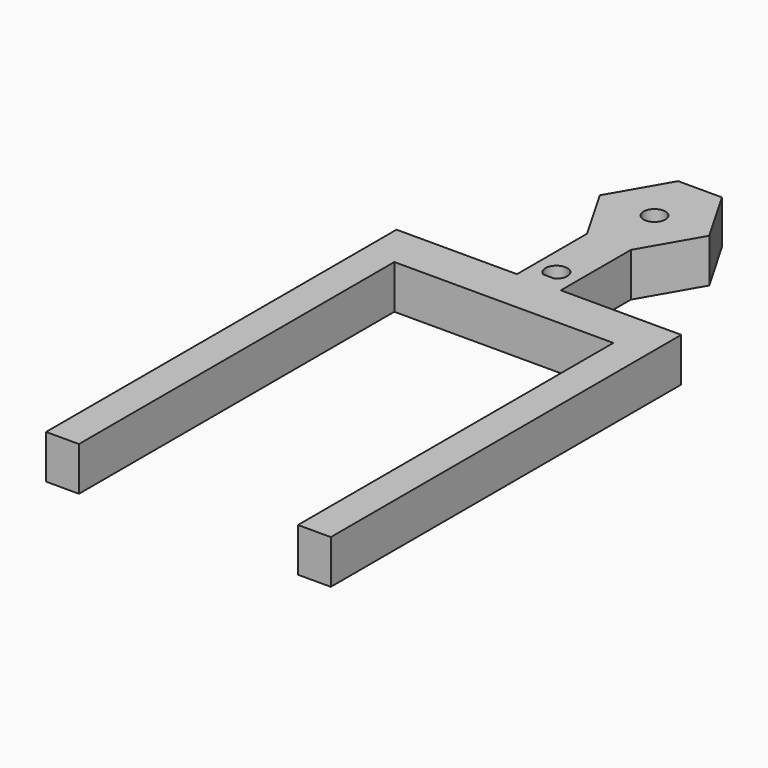
from build123d import *

# Parameters (mm, degrees)
F0_W     = 12.7
F0_H     = 12.7
F0_R     = 3.175
F1_DEPTH = 12.7


with BuildPart() as f1:
    # F0 (on Top) → F1 (new body)
    with BuildSketch(Plane.XY):
        Polygon((41.275, -6.35), (6.35, -6.35), (-6.35, -6.35), (-41.275, -6.35), (-41.275, -133.35), (-31.75, -133.35), (-31.75, -19.05), (0, -19.05), (31.75, -19.05), (31.75, -133.35), (41.275, -133.35), align=None)
        Rectangle(F0_W, F0_H)
        with BuildLine():
            ThreePointArc((-1.5875, -2.749631), (-1.5875, 2.749631), (3.175, 0))
            ThreePointArc((3.175, 0), (2.749631, -1.5875), (1.5875, -2.749631))
            ThreePointArc((1.5875, -2.749631), (0, -3.175), (-1.5875, -2.749631))
        make_face(mode=Mode.SUBTRACT)
        Polygon((-6.35, 6.35), (6.35, 6.35), (6.35, 19.05), (15.875, 35.547784), (6.35, 52.045568), (0, 52.045568), (-6.35, 52.045568), (-15.875, 35.547784), (-6.35, 19.05), align=None)
        with Locations((0, 35.547784)):
            Circle(F0_R, mode=Mode.SUBTRACT)
        with BuildLine():
            Line((1.5875, -2.749631), (-1.5875, -2.749631))
            ThreePointArc((-1.5875, -2.749631), (0, -3.175), (1.5875, -2.749631))
        make_face()
    extrude(amount=F1_DEPTH)


solid = f1.part
